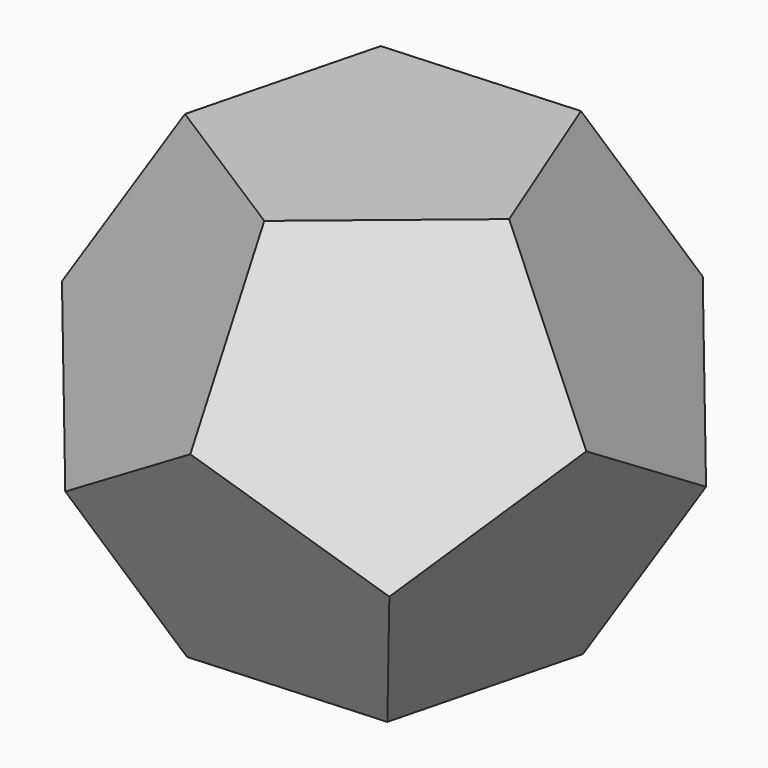
from build123d import *

# Parameters (mm, degrees)
F2_DEPTH = 25.4
F2_TAPER = -26.56505118
F4_DEPTH = 25.4
F4_TAPER = -26.56505118


with BuildPart() as f2:
    # F1 (on Top) → F2 (new body)
    with BuildSketch(Plane.XY):
        Polygon((9.0225406837, 3.5668390717), (-0.6041471381, 9.6831600001), (-9.3959241492, 2.4176829268), (-5.2028533419, -8.1889497773), (6.1803839455, -7.4787322214), align=None)
    extrude(amount=F2_DEPTH, taper=F2_TAPER)


with BuildPart() as f4:
    # F3 (on face) → F4 (new body)
    with BuildSketch(Plane.XY.offset(25.4)):
        Polygon((-9.0225406837, -3.5668390717), (0.6041471381, -9.6831600001), (9.3959241492, -2.4176829268), (5.2028533419, 8.1889497773), (-0.4887653018, 7.8338409994), (-6.1803839455, 7.4787322214), align=None)
    extrude(amount=-F4_DEPTH, taper=F4_TAPER)


with BuildPart() as f2_1:
    add(f2.part)

    # F5: intersect F4
    add(f4.part, mode=Mode.INTERSECT)


solid = f2_1.part
